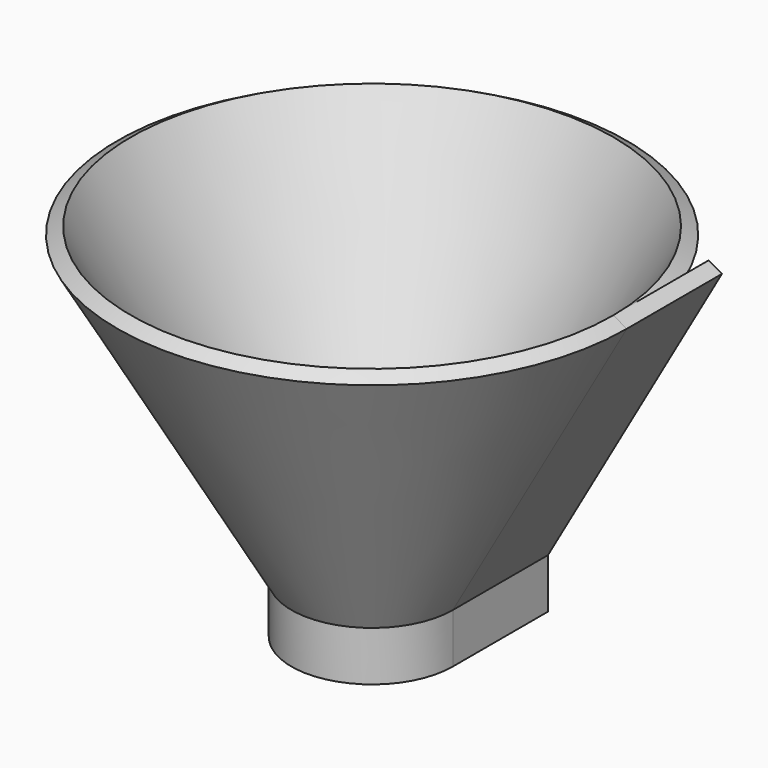
from build123d import *

# Parameters (mm, degrees)
F1_DEPTH = 25
F3_R     = 7.7623093382
F4_DEPTH = 25


with BuildPart() as f1:
    # F0 (on Front) → F1 (new body)
    with BuildSketch(Plane.XZ):
        Polygon((25.9043528415, 51.4944938206), (23.085501045, 53.0769191682), (-10.6548462063, -5.9193591587), (-27.623673901, -5.9193591587), (-27.623673901, -22.8881891817), (-10.6548462063, -22.8881891817), (-10.6548462063, -12.4306539074), align=None)
    extrude(amount=F1_DEPTH)

    # F1_face (on face) → F2 (revolve)
    with BuildSketch(Plane(origin=(-7.5947034843, -25, 1.5087803319), x_dir=(1, 0, 0), z_dir=(0, -1, 0))):
        Polygon((33.4990563258, 49.9857134887), (30.6802045293, 51.5681388363), (-3.060142722, -7.4281394906), (-20.0289704167, -7.4281394906), (-20.0289704167, -24.3969695136), (-3.060142722, -24.3969695136), (-3.060142722, -13.9394342393), align=None)
    revolve(axis=Axis((-27.623673901, -25, -14.4037741702), (0, 0, -1)))

    # F3 (on face) → F4 (cut)
    with BuildSketch(Plane(origin=(0, 0, -22.8881891817), x_dir=(1, 0, 0), z_dir=(0, 0, -1))):
        with Locations((-26.4316089451, 28.0019678175)):
            Circle(F3_R)
    extrude(amount=-F4_DEPTH, mode=Mode.SUBTRACT)


solid = f1.part
